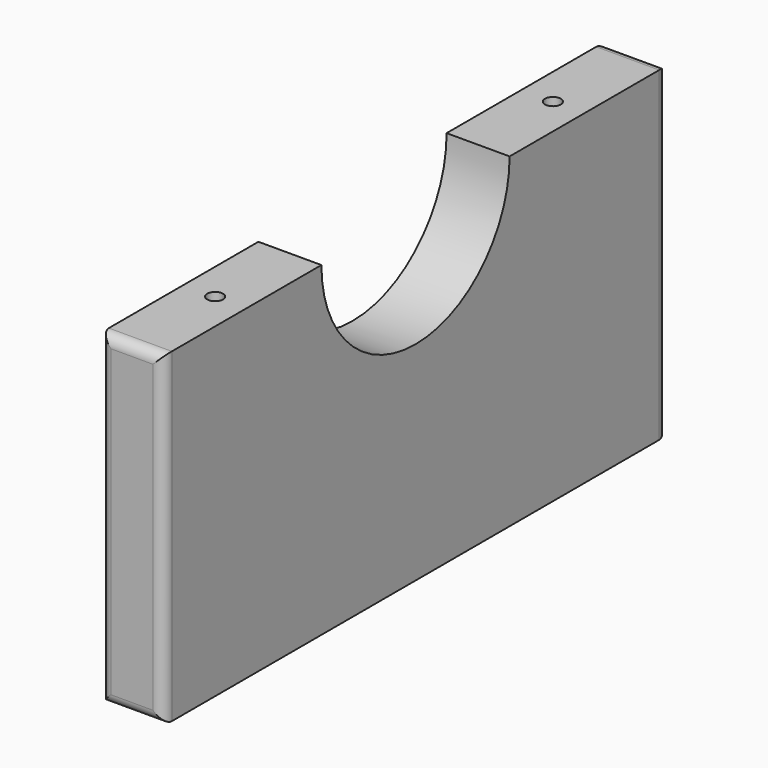
from build123d import *

# Parameters (mm, degrees)
SKETCH020_W     = 6
SKETCH020_H     = 60
PAD004_DEPTH    = 31
SKETCH021_R     = 11.2
POCKET_DEPTH    = 6.001
FILLET004_R     = 1
SKETCH027_R     = 0.75
POCKET009_DEPTH = 12


with BuildPart() as part:
    # Sketch020 → Pad004 (new body)
    with BuildSketch(Plane.XY):
        with Locations((70, 5)):
            Rectangle(SKETCH020_W, SKETCH020_H)
    extrude(amount=PAD004_DEPTH)

    # Sketch021 → Pocket (cut, through all)
    with BuildSketch(Plane.YZ.offset(73)):
        with Locations((5, 31)):
            Circle(SKETCH021_R)
    extrude(amount=-POCKET_DEPTH, mode=Mode.SUBTRACT)

    # Fillet004
    fillet004_edges = [part.edges().sort_by_distance(p)[0] for p in [
        (73, -25, 15.5),
        (67, -25, 15.5),
        (70, -25, 0),
        (70, -25, 31),
        (67, 35, 15.5),
        (73, 35, 15.5),
        (70, 35, 0),
        (70, 35, 31),
    ]]
    fillet(fillet004_edges, radius=FILLET004_R)

    # Sketch027 → Pocket009 (cut)
    with BuildSketch(Plane.XY.offset(31)):
        with Locations((70, 25.1)):
            Circle(SKETCH027_R)
        with Locations((70, -15.1)):
            Circle(SKETCH027_R)
    extrude(amount=-POCKET009_DEPTH, mode=Mode.SUBTRACT)


solid = part.part
